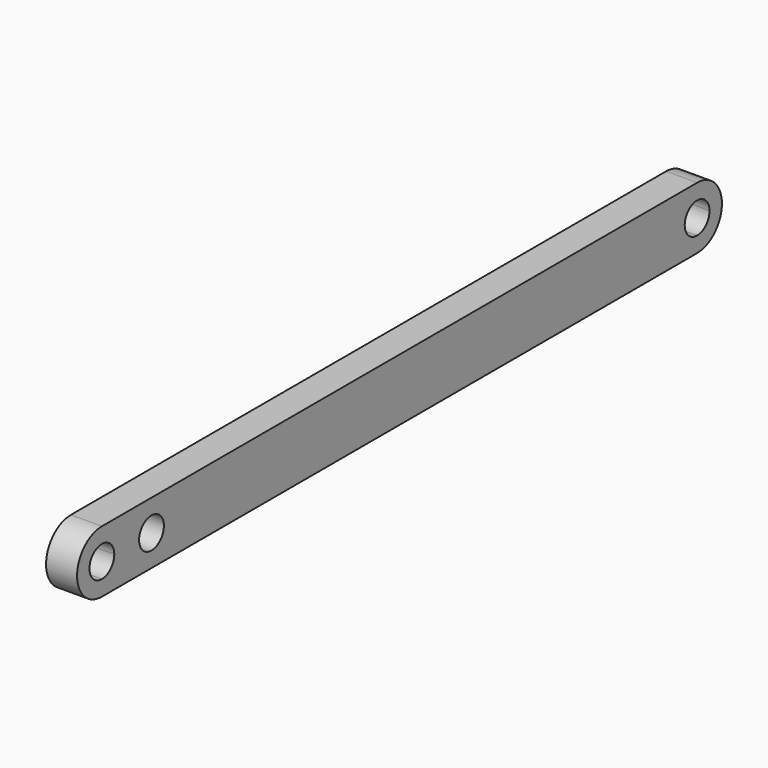
from build123d import *

# Parameters (mm, degrees)
F1_DEPTH = 25.4


with BuildPart() as f1:
    # F0 (on Right) → F1 (new body)
    with BuildSketch(Plane.YZ):
        with BuildLine():
            ThreePointArc((-239.6828063071, -21.0989156985), (-247.1222940649, -3.1384034563), (-265.0828063071, 4.3010843015))
            Line((-265.0828063071, 4.3010843015), (-265.0828063071, -8.3989156985))
            ThreePointArc((-265.0828063071, -8.3989156985), (-256.102550186, -12.1186595774), (-252.3828063071, -21.0989156985))
            ThreePointArc((-252.3828063071, -21.0989156985), (-256.102550186, -30.0791718195), (-265.0828063071, -33.7989156985))
            Line((-265.0828063071, -33.7989156985), (-265.0828063071, -46.4989156985))
            ThreePointArc((-265.0828063071, -46.4989156985), (-247.1222940649, -39.0594279406), (-239.6828063071, -21.0989156985))
        make_face()
        with BuildLine():
            Line((344.5171936929, 4.3010843015), (-265.0828063071, 4.3010843015))
            ThreePointArc((-265.0828063071, 4.3010843015), (-247.1222940649, -3.1384034563), (-239.6828063071, -21.0989156985))
            ThreePointArc((-239.6828063071, -21.0989156985), (-247.1222940649, -39.0594279406), (-265.0828063071, -46.4989156985))
            Line((-265.0828063071, -46.4989156985), (344.5171936929, -46.4989156985))
            ThreePointArc((344.5171936929, -46.4989156985), (319.1171936929, -21.0989156985), (344.5171936929, 4.3010843015))
        make_face()
        with BuildLine():
            ThreePointArc((-201.5828063071, -21.0989156985), (-214.2828063071, -33.7989156985), (-226.9828063071, -21.0989156985))
            ThreePointArc((-226.9828063071, -21.0989156985), (-214.2828063071, -8.3989156985), (-201.5828063071, -21.0989156985))
        make_face(mode=Mode.SUBTRACT)
        with BuildLine():
            Line((-265.0828063071, -8.3989156985), (-265.0828063071, 4.3010843015))
            ThreePointArc((-265.0828063071, 4.3010843015), (-290.4828063071, -21.0989156985), (-265.0828063071, -46.4989156985))
            Line((-265.0828063071, -46.4989156985), (-265.0828063071, -33.7989156985))
            ThreePointArc((-265.0828063071, -33.7989156985), (-277.7828063071, -21.0989156985), (-265.0828063071, -8.3989156985))
        make_face()
        with BuildLine():
            ThreePointArc((369.9171936929, -21.0989156985), (362.4777059351, -3.1384034563), (344.5171936929, 4.3010843015))
            Line((344.5171936929, 4.3010843015), (344.5171936929, -8.3989156985))
            ThreePointArc((344.5171936929, -8.3989156985), (353.497449814, -12.1186595774), (357.2171936929, -21.0989156985))
            ThreePointArc((357.2171936929, -21.0989156985), (353.497449814, -30.0791718195), (344.5171936929, -33.7989156985))
            Line((344.5171936929, -33.7989156985), (344.5171936929, -46.4989156985))
            ThreePointArc((344.5171936929, -46.4989156985), (362.4777059351, -39.0594279406), (369.9171936929, -21.0989156985))
        make_face()
        with BuildLine():
            Line((344.5171936929, -8.3989156985), (344.5171936929, 4.3010843015))
            ThreePointArc((344.5171936929, 4.3010843015), (319.1171936929, -21.0989156985), (344.5171936929, -46.4989156985))
            Line((344.5171936929, -46.4989156985), (344.5171936929, -33.7989156985))
            ThreePointArc((344.5171936929, -33.7989156985), (331.8171936929, -21.0989156985), (344.5171936929, -8.3989156985))
        make_face()
    extrude(amount=F1_DEPTH)


solid = f1.part
